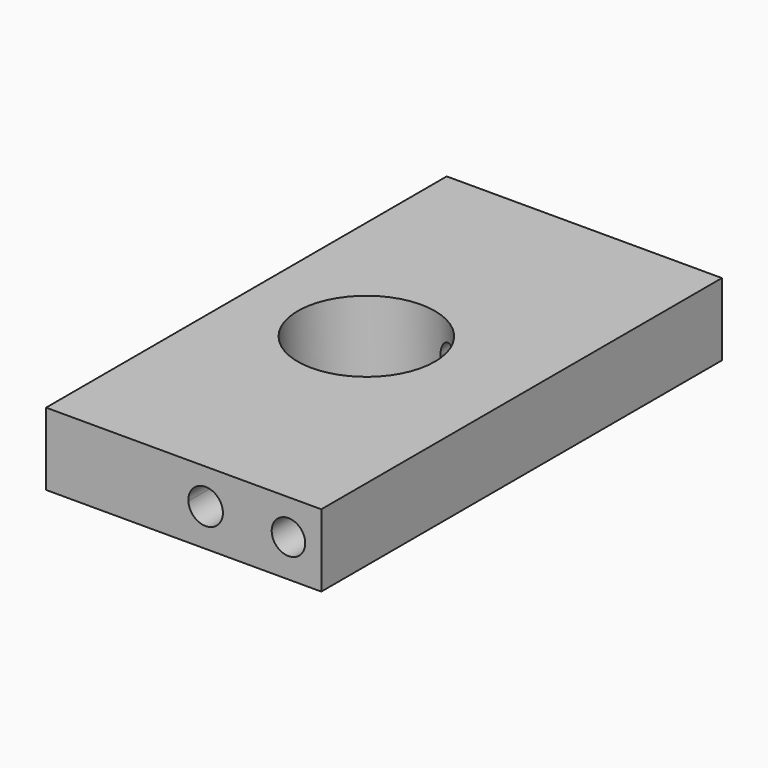
from build123d import *

# Parameters (mm, degrees)
F0_W     = 16.115269
F0_H     = 4.244756
F2_DEPTH = 29.323
F1_R     = 0.981148
F3_DEPTH = 42.4
F4_R     = 4.015374
F5_DEPTH = 25


with BuildPart() as f2:
    # F0 (on Front) → F2 (new body)
    with BuildSketch(Plane.XZ):
        with Locations((8.057634, 2.122378)):
            Rectangle(F0_W, F0_H)
    extrude(amount=-F2_DEPTH)

    # F1 (on face) → F3 (cut)
    with BuildSketch(Plane.XZ):
        with Locations((14.192748, 2.187148)):
            Circle(F1_R)
        with BuildLine():
            ThreePointArc((8.330639, 2.130213), (9.369746, 1.175413), (10.353437, 2.187214))
            ThreePointArc((10.353437, 2.187214), (9.312723, 3.199015), (8.330639, 2.130213))
        make_face()
    extrude(amount=-F3_DEPTH, mode=Mode.SUBTRACT)

    # F4 (on face) → F5 (cut)
    with BuildSketch(Plane.XY.offset(4.244756)):
        with Locations((7.023575, 14.6615)):
            Circle(F4_R)
    extrude(amount=-F5_DEPTH, mode=Mode.SUBTRACT)


solid = f2.part
